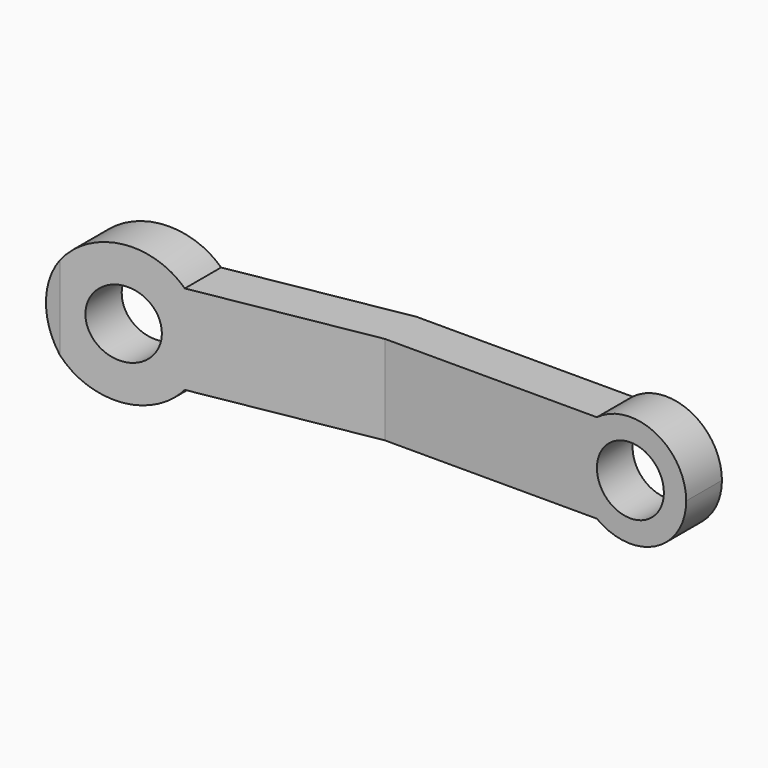
from build123d import *

# Parameters (mm, degrees)
F0_R     = 6
F1_DEPTH = 25
F3_DEPTH = 12.5


with BuildPart() as f1:
    # F0 (on Front) → F1 (new body)
    with BuildSketch(Plane.XZ):
        with BuildLine():
            ThreePointArc((-30.709658, -8), (-28.560439, -4.253905), (-27.814344, 0))
            ThreePointArc((-27.814344, 0), (-28.560439, 4.253905), (-30.709658, 8))
            ThreePointArc((-30.709658, 8), (-52.814344, 0), (-30.709658, -8))
        make_face()
        with Locations((-40.314344, 0)):
            Circle(F0_R, mode=Mode.SUBTRACT)
        with BuildLine():
            ThreePointArc((-30.709658, 8), (-28.560439, 4.253905), (-27.814344, 0))
            ThreePointArc((-27.814344, 0), (-28.560439, -4.253905), (-30.709658, -8))
            Line((-30.709658, -8), (38.685656, -8))
            ThreePointArc((38.685656, -8), (34.685656, 0), (38.685656, 8))
            Line((38.685656, 8), (-30.709658, 8))
        make_face()
        with BuildLine():
            ThreePointArc((54.685656, 0), (49.157792, 8.944272), (38.685656, 8))
            ThreePointArc((38.685656, 8), (34.685656, 0), (38.685656, -8))
            ThreePointArc((38.685656, -8), (49.157792, -8.944272), (54.685656, 0))
        make_face()
        with Locations((44.685656, 0)):
            Circle(F0_R, mode=Mode.SUBTRACT)
    extrude(amount=F1_DEPTH)

    # F2 (on Top) → F3 (intersect, symmetric)
    with BuildSketch(Plane.XY):
        Polygon((-51.041536, -9), (-52.814344, -9), (-52.814344, -17), (-50.341627, -17), (0.699909, -8), (54.685656, -8), (54.685656, 0), (25.572881, 0), (0, 0), align=None)
    extrude(amount=F3_DEPTH, both=True, mode=Mode.INTERSECT)


solid = f1.part
